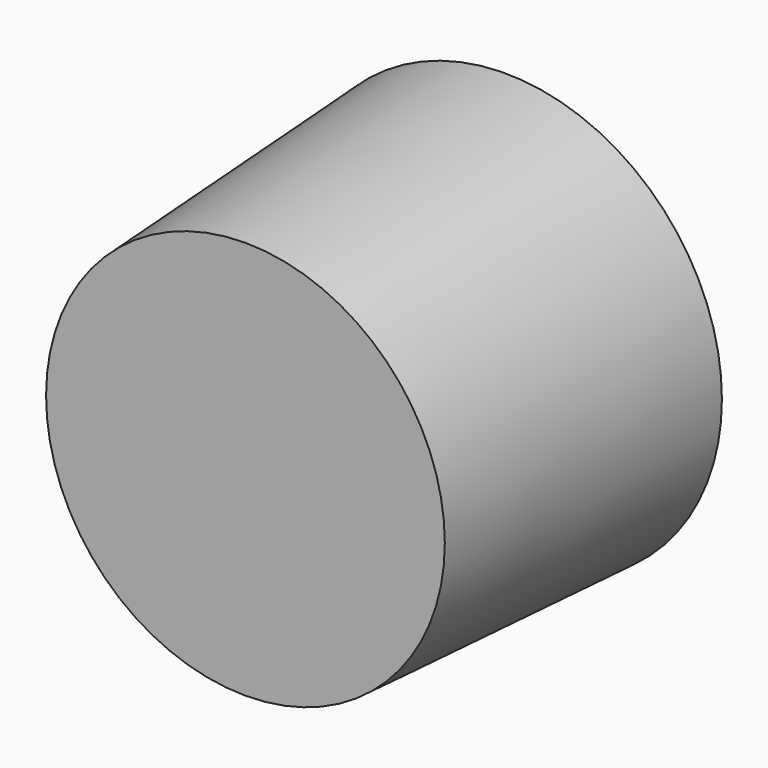
from build123d import *

# Parameters (mm, degrees)
F0_R     = 7.7884574351
F1_DEPTH = 12.7
F1_TAPER = -3


with BuildPart() as f1:
    # F0 (on Front) → F1 (new body)
    with BuildSketch(Plane.XZ):
        with Locations((-39.9075839422, 21.5155493358)):
            Circle(F0_R)
    extrude(amount=-F1_DEPTH, taper=F1_TAPER)


solid = f1.part
